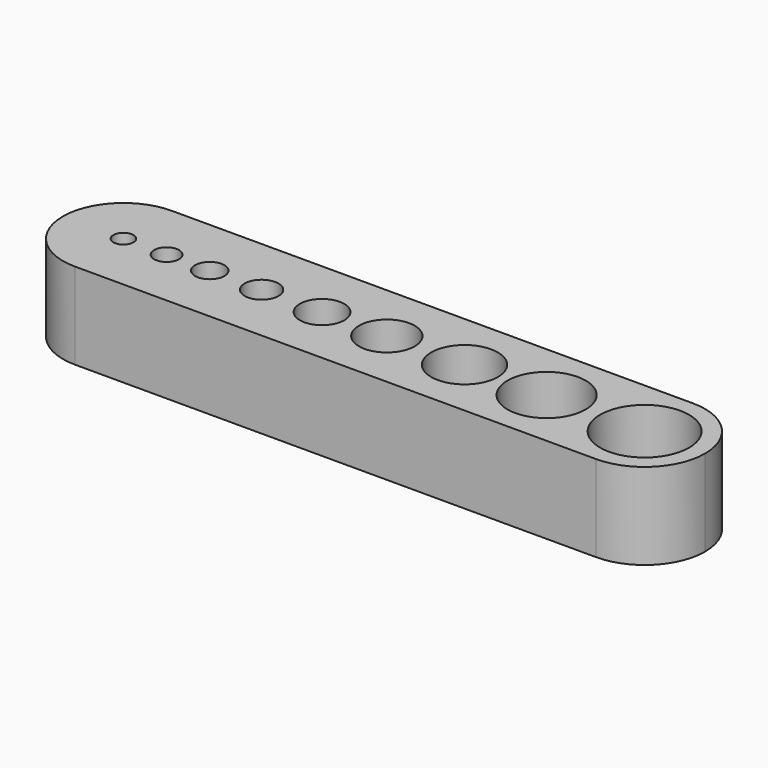
from build123d import *

# Parameters (mm, degrees)
F1_DEPTH = 12.7
F2_R     = 1.4732
F2_R_2   = 6.54812
F2_R_3   = 1.8288
F2_R_4   = 2.159
F2_R_5   = 2.4892
F2_R_6   = 3.2639
F2_R_7   = 4.1021
F2_R_8   = 4.9022
F2_R_9   = 5.7531
F3_DEPTH = 12.701


with BuildPart() as f1:
    # F0 (on Top) → F1 (new body)
    with BuildSketch(Plane.XY):
        with BuildLine():
            ThreePointArc((0, 0), (6.286179, 2.603821), (8.89, 8.89))
            ThreePointArc((8.89, 8.89), (6.286179, 15.176179), (0, 17.78))
            ThreePointArc((0, 17.78), (-8.89, 8.89), (0, 0))
        make_face()
        with BuildLine():
            ThreePointArc((0, 17.78), (6.286179, 15.176179), (8.89, 8.89))
            ThreePointArc((8.89, 8.89), (6.286179, 2.603821), (0, 0))
            Line((0, 0), (76.640059, 0))
            ThreePointArc((76.640059, 0), (67.750059, 8.89), (76.640059, 17.78))
            Line((76.640059, 17.78), (0, 17.78))
        make_face()
        with BuildLine():
            ThreePointArc((85.530059, 8.89), (82.926239, 15.176179), (76.640059, 17.78))
            ThreePointArc((76.640059, 17.78), (67.750059, 8.89), (76.640059, 0))
            ThreePointArc((76.640059, 0), (82.926239, 2.603821), (85.530059, 8.89))
        make_face()
    extrude(amount=F1_DEPTH)

    # F2 (on face) → F3 (cut, through all)
    with BuildSketch(Plane.XY.offset(12.7)):
        with Locations((0, 8.89)):
            Circle(F2_R)
        with Locations((76.640059, 8.89)):
            Circle(F2_R_2)
        with Locations((6.35, 8.89)):
            Circle(F2_R_3)
        with Locations((12.7, 8.89)):
            Circle(F2_R_4)
        with Locations((20.32, 8.89)):
            Circle(F2_R_5)
        with Locations((29.21, 8.89)):
            Circle(F2_R_6)
        with Locations((38.735, 8.89)):
            Circle(F2_R_7)
        with Locations((50.165, 8.89)):
            Circle(F2_R_8)
        with Locations((62.23, 8.89)):
            Circle(F2_R_9)
    extrude(amount=-F3_DEPTH, mode=Mode.SUBTRACT)


solid = f1.part
